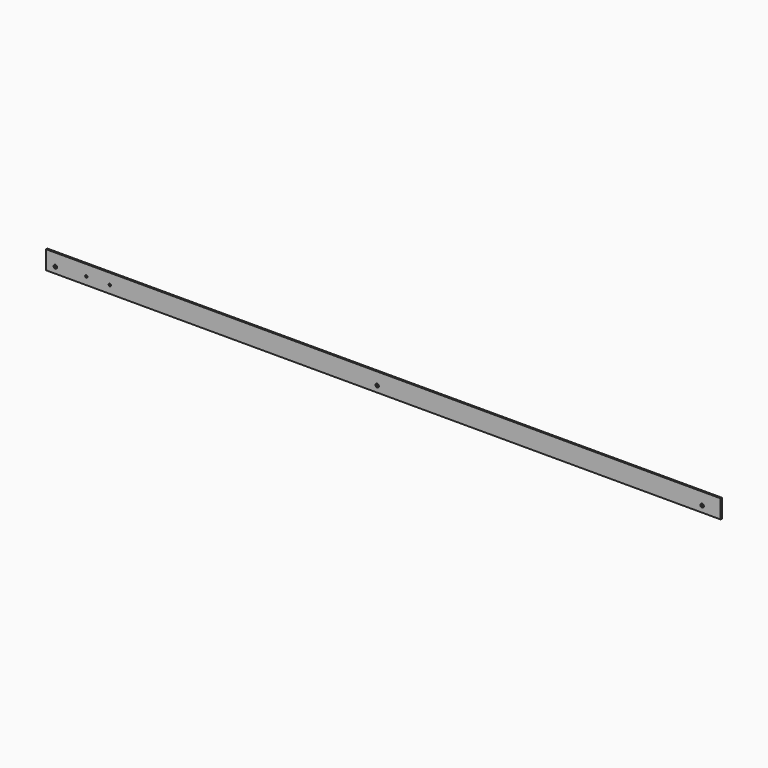
from build123d import *

# Parameters (mm, degrees)
F0_W     = 1384.3
F0_H     = 38.1
F1_DEPTH = 3.175
F2_R     = 3.57124
F2_R_2   = 2.38125
F3_DEPTH = 3.176


with BuildPart() as f1:
    # F0 (on Front) → F1 (new body)
    with BuildSketch(Plane.XZ):
        with Locations((692.15, 19.05)):
            Rectangle(F0_W, F0_H)
    extrude(amount=-F1_DEPTH)

    # F2 (on face) → F3 (cut, through all)
    with BuildSketch(Plane.XZ):
        with Locations((19.05, 12.7)):
            Circle(F2_R)
        with Locations((82.55, 15.875)):
            Circle(F2_R_2)
        with Locations((130.81, 15.875)):
            Circle(F2_R_2)
        with Locations((679.45, 12.7)):
            Circle(F2_R)
        with Locations((1346.2, 12.7)):
            Circle(F2_R)
    extrude(amount=-F3_DEPTH, mode=Mode.SUBTRACT)


solid = f1.part
